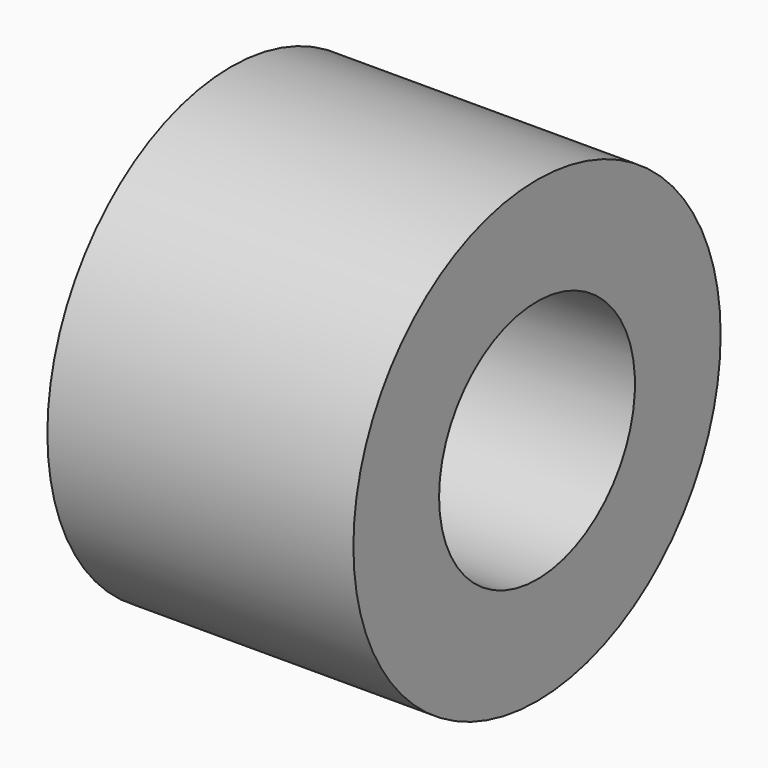
from build123d import *

# Parameters (mm, degrees)
F0_R     = 7.5
F1_DEPTH = 10
F3_D     = 8


with BuildPart() as f1:
    # F0 (on Right) → F1 (new body)
    with BuildSketch(Plane.YZ):
        Circle(F0_R)
    extrude(amount=F1_DEPTH)

    # F3 (through all)
    with Locations(Plane(origin=(0, 0, 0), x_dir=(0, 1, 0), z_dir=(-1, 0, 0))):
        with Locations((0, 0)):
            Hole(F3_D / 2)


solid = f1.part
